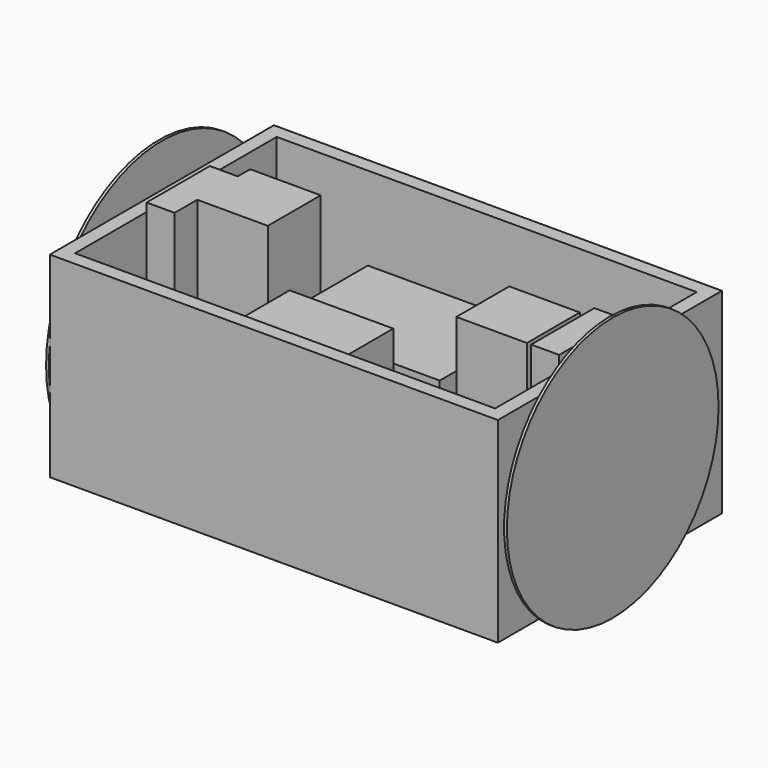
from build123d import *

# Parameters (mm, degrees)
F0_W      = 203.2
F0_H      = 127
F1_DEPTH  = 44.45
F2_T      = -6.35
F3_W      = 75
F3_H      = 53
F3_W_2    = 46.99
F3_H_2    = 28.010949
F4_DEPTH  = 25
F6_R      = 60
F7_DEPTH  = 1.27
F9_R      = 64.05789
F10_DEPTH = 1.27
F4_FACE_W = 46.99
F4_FACE_H = 28.01095
F11_DEPTH = 15
F12_W     = 12.7
F12_H     = 35.814
F12_W_2   = 32.004
F12_H_2   = 29.9974
F13_DEPTH = 50.8


with BuildPart() as f1:
    # F0 (on Top) → F1 (new body, symmetric)
    with BuildSketch(Plane.XY):
        Rectangle(F0_W, F0_H)
    extrude(amount=F1_DEPTH, both=True)

    # F2
    f2_openings = [f1.faces().sort_by_distance(p)[0] for p in [
        (0, 0, 44.45),
    ]]
    offset(amount=F2_T, openings=f2_openings)

    # F6 (on offset) → F7 (join)
    with BuildSketch(Plane.YZ.offset(101.6)):
        Circle(F6_R)
    extrude(amount=F7_DEPTH)

    # F9 (on offset) → F10 (join)
    with BuildSketch(Plane(origin=(-101.6, 0, 0), x_dir=(0, -1, 0), z_dir=(-1, 0, 0))):
        Circle(F9_R)
    extrude(amount=F10_DEPTH)


with BuildPart() as f4:
    # F3 (on Top) → F4 (new body)
    with BuildSketch(Plane.XY):
        with Locations((5.75, 2.956568)):
            Rectangle(F3_W, F3_H)
        with Locations((0, -39.185531)):
            Rectangle(F3_W_2, F3_H_2)
    extrude(amount=F4_DEPTH)


with BuildPart() as f11:
    # F3 (on Top) + F4_face (on face) → F11 (new body)
    with BuildSketch(Plane.XY):
        with Locations((5.75, 2.956568)):
            Rectangle(F3_W, F3_H)
        with Locations((0, -39.185531)):
            Rectangle(F3_W_2, F3_H_2)
    with BuildSketch(Plane(origin=(0, -39.185531, 25), x_dir=(1, 0, 0), z_dir=(0, 0, 1))):
        Rectangle(F4_FACE_W, F4_FACE_H)
    extrude(amount=F11_DEPTH)


with BuildPart() as f13:
    # F12 (on Top) → F13 (new body)
    with BuildSketch(Plane.XY):
        Polygon((-79.470783, 15.372009), (-92.170783, 15.372009), (-92.170783, -20.437819), (-79.470783, -20.437819), (-79.470783, -7.598715), align=None)
        Polygon((-79.470783, 22.401285), (-79.470783, 15.372009), (-79.470783, -7.598715), (-47.470783, -7.598715), (-47.470783, 22.401285), align=None)
        with Locations((88.594918, -2.534991)):
            Rectangle(F12_W, F12_H)
        with Locations((64.308115, -5.443291)):
            Rectangle(F12_W_2, F12_H_2)
    extrude(amount=F13_DEPTH)


solid = Compound([f1.part, f4.part, f11.part, f13.part])
